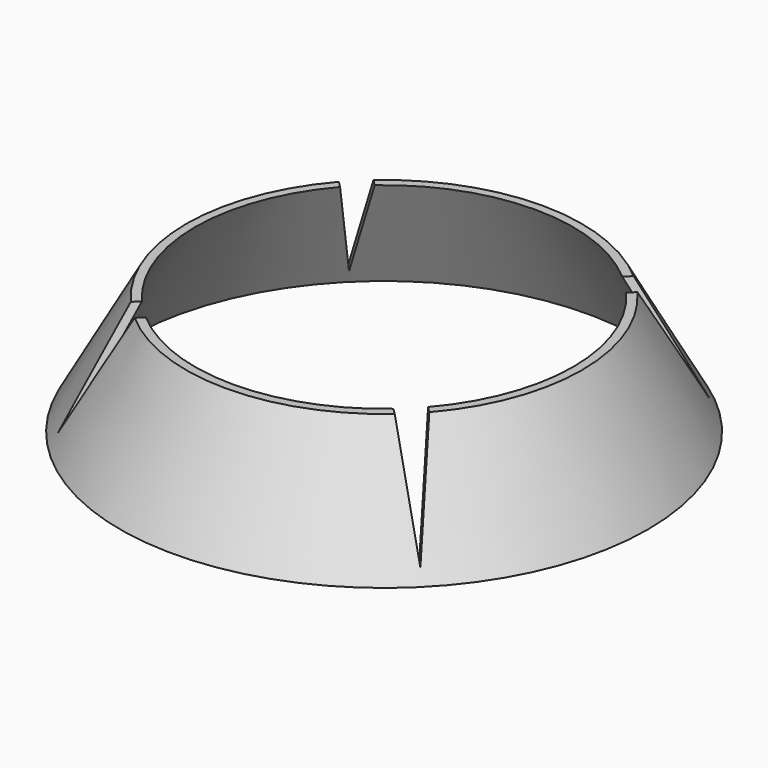
from build123d import *

# Parameters (mm, degrees)
SKETCH018_R           = 58
SKETCH019_R           = 43
SKETCH016_R           = 60
SKETCH017_R           = 45
POCKET003_DEPTH       = 33
POLARPATTERN005_COUNT = 4


with BuildPart() as loft001:
    # Sketch018 → Loft001 section 0
    with BuildSketch(Plane.XY.offset(3)):
        Circle(SKETCH018_R)
    # Sketch019 → Loft001 section 1
    with BuildSketch(Plane.XY.offset(30)):
        Circle(SKETCH019_R)
    loft()


with BuildPart() as support:
    # Sketch016 → Loft section 0
    with BuildSketch(Plane.XY.offset(3)):
        Circle(SKETCH016_R)
    # Sketch017 → Loft section 1
    with BuildSketch(Plane.XY.offset(30)):
        Circle(SKETCH017_R)
    loft()

    # Cut: cut Loft001
    add(loft001.part, mode=Mode.SUBTRACT)

    # Sketch020 → Pocket003 (cut)
    with BuildSketch(Plane(origin=(-50, -50, 0), x_dir=(-0.707107, 0.707107, 0), z_dir=(0.707107, 0.707107, 0))):
        Polygon((0, 6), (-3.748315, 35.090931), (3.748315, 35.090931), align=None)
    pocket003 = extrude(amount=POCKET003_DEPTH, mode=Mode.SUBTRACT)

    # PolarPattern005: Pocket003 ×4 about axis
    polarpattern005_axis = Axis((0, 0, 0), (0, 0, 1))
    for i in range(1, POLARPATTERN005_COUNT):
        add(pocket003.rotate(polarpattern005_axis, i * 360 / POLARPATTERN005_COUNT), mode=Mode.SUBTRACT)


solid = support.part
